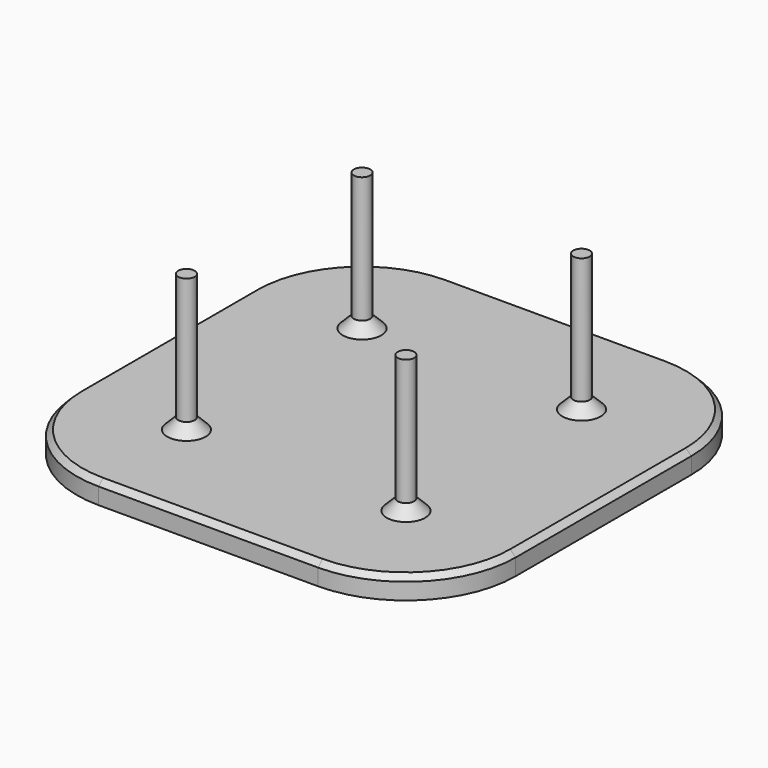
from build123d import *

# Parameters (mm, degrees)
SKETCH_W        = 80
SKETCH_H        = 80
PAD_DEPTH       = 4
SKETCH001_R     = 1.5
PAD001_DEPTH    = 25
FILLET_R        = 20
CHAMFER_SIZE    = 2
CHAMFER001_SIZE = 1


with BuildPart() as part:
    # Sketch → Pad (new body)
    with BuildSketch(Plane.XY):
        with Locations((40, 40)):
            Rectangle(SKETCH_W, SKETCH_H)
    extrude(amount=PAD_DEPTH)

    # Sketch001 (on Face6 of Pad) → Pad001 (join)
    with BuildSketch(Plane.XY.offset(4)):
        with Locations((20, 60)):
            Circle(SKETCH001_R)
        with Locations((20, 20)):
            Circle(SKETCH001_R)
        with Locations((60, 60)):
            Circle(SKETCH001_R)
        with Locations((60, 20)):
            Circle(SKETCH001_R)
    extrude(amount=PAD001_DEPTH)

    # Fillet
    fillet_edges = [part.edges().sort_by_distance(p)[0] for p in [
        (80, 80, 2),
        (80, 0, 2),
        (0, 0, 2),
        (0, 80, 2),
    ]]
    fillet(fillet_edges, radius=FILLET_R)

    # Chamfer
    chamfer_edges = [part.edges().sort_by_distance(p)[0] for p in [
        (58.5, 20, 4),
        (58.5, 60, 4),
        (18.5, 20, 4),
        (18.5, 60, 4),
    ]]
    chamfer(chamfer_edges, length=CHAMFER_SIZE)

    # Chamfer001
    chamfer001_edges = [part.edges().sort_by_distance(p)[0] for p in [
        (40, 0, 4),
        (74.142136, 5.857864, 4),
        (80, 40, 4),
        (74.142136, 74.142136, 4),
        (40, 80, 4),
        (5.857864, 74.142136, 4),
        (0, 40, 4),
        (5.857864, 5.857864, 4),
    ]]
    chamfer(chamfer001_edges, length=CHAMFER001_SIZE)


solid = part.part
